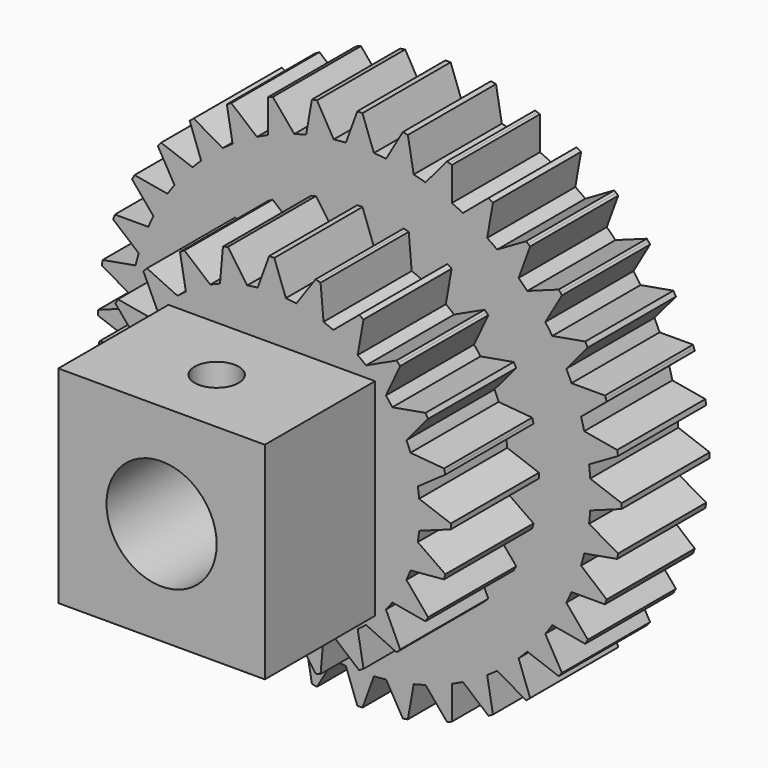
from build123d import *

# Parameters (mm, degrees)
F0_R     = 4
F1_DEPTH = 8
F2_R     = 4
F3_DEPTH = 8
F4_W     = 15
F4_H     = 15
F4_R     = 4
F5_DEPTH = 10
F6_R     = 1.6
F7_DEPTH = 4.833939544


with BuildPart() as f1:
    # F0 (on Front) → F1 (new body)
    with BuildSketch(Plane.XZ):
        with BuildLine():
            ThreePointArc((10.701095609, -1.0242327697), (10.7377669419, -0.5126998162), (10.75, 0))
            ThreePointArc((10.75, 0), (10.7377669419, 0.5126998162), (10.701095609, 1.0242327697))
            ThreePointArc((10.701095609, 1.0242327697), (10.6580322598, 1.4031565664), (10.6015555658, 1.7803144627))
            ThreePointArc((10.6015555658, 1.7803144627), (10.3837026326, 2.7823047349), (10.0713736709, 3.7589802315))
            ThreePointArc((10.0713736709, 3.7589802315), (9.9317049745, 4.1138468979), (9.7795370306, 4.4635362065))
            ThreePointArc((9.7795370306, 4.4635362065), (9.3097730907, 5.375), (8.7553042609, 6.2375594025))
            ThreePointArc((8.7553042609, 6.2375594025), (8.5285484081, 6.5441853618), (8.2910592083, 6.8425753343))
            ThreePointArc((8.2910592083, 6.8425753343), (7.6013978978, 7.6013978978), (6.8425753343, 8.2910592083))
            ThreePointArc((6.8425753343, 8.2910592083), (6.5441853618, 8.5285484081), (6.2375594025, 8.7553042609))
            ThreePointArc((6.2375594025, 8.7553042609), (5.375, 9.3097730907), (4.4635362065, 9.7795370306))
            ThreePointArc((4.4635362065, 9.7795370306), (4.1138468979, 9.9317049745), (3.7589802315, 10.0713736709))
            ThreePointArc((3.7589802315, 10.0713736709), (2.7823047349, 10.3837026326), (1.7803144627, 10.6015555658))
            ThreePointArc((1.7803144627, 10.6015555658), (1.4031565664, 10.6580322598), (1.0242327697, 10.701095609))
            ThreePointArc((1.0242327697, 10.701095609), (0, 10.75), (-1.0242327697, 10.701095609))
            ThreePointArc((-1.0242327697, 10.701095609), (-1.4031565664, 10.6580322598), (-1.7803144627, 10.6015555658))
            ThreePointArc((-1.7803144627, 10.6015555658), (-2.7823047349, 10.3837026326), (-3.7589802315, 10.0713736709))
            ThreePointArc((-3.7589802315, 10.0713736709), (-4.1138468979, 9.9317049745), (-4.4635362065, 9.7795370306))
            ThreePointArc((-4.4635362065, 9.7795370306), (-5.375, 9.3097730907), (-6.2375594025, 8.7553042609))
            ThreePointArc((-6.2375594025, 8.7553042609), (-6.5441853618, 8.5285484081), (-6.8425753343, 8.2910592083))
            ThreePointArc((-6.8425753343, 8.2910592083), (-7.6013978978, 7.6013978978), (-8.2910592083, 6.8425753343))
            ThreePointArc((-8.2910592083, 6.8425753343), (-8.5285484081, 6.5441853618), (-8.7553042609, 6.2375594025))
            ThreePointArc((-8.7553042609, 6.2375594025), (-9.3097730907, 5.375), (-9.7795370306, 4.4635362065))
            ThreePointArc((-9.7795370306, 4.4635362065), (-9.9317049745, 4.1138468979), (-10.0713736709, 3.7589802315))
            ThreePointArc((-10.0713736709, 3.7589802315), (-10.3837026326, 2.7823047349), (-10.6015555658, 1.7803144627))
            ThreePointArc((-10.6015555658, 1.7803144627), (-10.6580322598, 1.4031565664), (-10.701095609, 1.0242327697))
            ThreePointArc((-10.701095609, 1.0242327697), (-10.75, 0), (-10.701095609, -1.0242327697))
            ThreePointArc((-10.701095609, -1.0242327697), (-10.6580322598, -1.4031565664), (-10.6015555658, -1.7803144627))
            ThreePointArc((-10.6015555658, -1.7803144627), (-10.3837026326, -2.7823047349), (-10.0713736709, -3.7589802315))
            ThreePointArc((-10.0713736709, -3.7589802315), (-9.9317049745, -4.1138468979), (-9.7795370306, -4.4635362065))
            ThreePointArc((-9.7795370306, -4.4635362065), (-9.3097730907, -5.375), (-8.7553042609, -6.2375594025))
            ThreePointArc((-8.7553042609, -6.2375594025), (-8.5285484081, -6.5441853618), (-8.2910592083, -6.8425753343))
            ThreePointArc((-8.2910592083, -6.8425753343), (-7.6013978978, -7.6013978978), (-6.8425753343, -8.2910592083))
            ThreePointArc((-6.8425753343, -8.2910592083), (-6.5441853618, -8.5285484081), (-6.2375594025, -8.7553042609))
            ThreePointArc((-6.2375594025, -8.7553042609), (-5.375, -9.3097730907), (-4.4635362065, -9.7795370306))
            ThreePointArc((-4.4635362065, -9.7795370306), (-4.1138468979, -9.9317049745), (-3.7589802315, -10.0713736709))
            ThreePointArc((-3.7589802315, -10.0713736709), (-2.7823047349, -10.3837026326), (-1.7803144627, -10.6015555658))
            ThreePointArc((-1.7803144627, -10.6015555658), (-1.4031565664, -10.6580322598), (-1.0242327697, -10.701095609))
            ThreePointArc((-1.0242327697, -10.701095609), (0, -10.75), (1.0242327697, -10.701095609))
            ThreePointArc((1.0242327697, -10.701095609), (1.4031565664, -10.6580322598), (1.7803144627, -10.6015555658))
            ThreePointArc((1.7803144627, -10.6015555658), (2.7823047349, -10.3837026326), (3.7589802315, -10.0713736709))
            ThreePointArc((3.7589802315, -10.0713736709), (4.1138468979, -9.9317049745), (4.4635362065, -9.7795370306))
            ThreePointArc((4.4635362065, -9.7795370306), (5.375, -9.3097730907), (6.2375594025, -8.7553042609))
            ThreePointArc((6.2375594025, -8.7553042609), (6.5441853618, -8.5285484081), (6.8425753343, -8.2910592083))
            ThreePointArc((6.8425753343, -8.2910592083), (7.6013978978, -7.6013978978), (8.2910592083, -6.8425753343))
            ThreePointArc((8.2910592083, -6.8425753343), (8.5285484081, -6.5441853618), (8.7553042609, -6.2375594025))
            ThreePointArc((8.7553042609, -6.2375594025), (9.3097730907, -5.375), (9.7795370306, -4.4635362065))
            ThreePointArc((9.7795370306, -4.4635362065), (9.9317049745, -4.1138468979), (10.0713736709, -3.7589802315))
            ThreePointArc((10.0713736709, -3.7589802315), (10.3837026326, -2.7823047349), (10.6015555658, -1.7803144627))
            ThreePointArc((10.6015555658, -1.7803144627), (10.6580322598, -1.4031565664), (10.701095609, -1.0242327697))
        make_face()
        Circle(F0_R, mode=Mode.SUBTRACT)
        with BuildLine():
            ThreePointArc((10.701095609, 1.0242327697), (10.7377669419, 0.5126998162), (10.75, 0))
            ThreePointArc((10.75, 0), (10.7377669419, -0.5126998162), (10.701095609, -1.0242327697))
            Line((10.701095609, -1.0242327697), (13, -0.1875))
            Line((13, -0.1875), (13, 0))
            Line((13, 0), (13, 0.1875))
            Line((13, 0.1875), (10.701095609, 1.0242327697))
        make_face()
        with BuildLine():
            ThreePointArc((10.0713736709, 3.7589802315), (10.3837026326, 2.7823047349), (10.6015555658, 1.7803144627))
            Line((10.6015555658, 1.7803144627), (12.6055643127, 3.1835364939))
            Line((12.6055643127, 3.1835364939), (12.5570357418, 3.3646475863))
            Line((12.5570357418, 3.3646475863), (12.5085071708, 3.5457586788))
            Line((12.5085071708, 3.5457586788), (10.0713736709, 3.7589802315))
        make_face()
        with BuildLine():
            Line((12.6055643127, -3.1835364939), (10.6015555658, -1.7803144627))
            ThreePointArc((10.6015555658, -1.7803144627), (10.3837026326, -2.7823047349), (10.0713736709, -3.7589802315))
            Line((10.0713736709, -3.7589802315), (12.5085071708, -3.5457586788))
            Line((12.5085071708, -3.5457586788), (12.5570357418, -3.3646475863))
            Line((12.5570357418, -3.3646475863), (12.6055643127, -3.1835364939))
        make_face()
        with BuildLine():
            ThreePointArc((8.7553042609, 6.2375594025), (9.3097730907, 5.375), (9.7795370306, 4.4635362065))
            Line((9.7795370306, 4.4635362065), (11.3520802492, 6.3376202368))
            Line((11.3520802492, 6.3376202368), (11.2583302492, 6.5))
            Line((11.2583302492, 6.5), (11.1645802492, 6.6623797632))
            Line((11.1645802492, 6.6623797632), (8.7553042609, 6.2375594025))
        make_face()
        with BuildLine():
            Line((11.3520802492, -6.3376202368), (9.7795370306, -4.4635362065))
            ThreePointArc((9.7795370306, -4.4635362065), (9.3097730907, -5.375), (8.7553042609, -6.2375594025))
            Line((8.7553042609, -6.2375594025), (11.1645802492, -6.6623797632))
            Line((11.1645802492, -6.6623797632), (11.2583302492, -6.5))
            Line((11.2583302492, -6.5), (11.3520802492, -6.3376202368))
        make_face()
        with BuildLine():
            ThreePointArc((6.8425753343, 8.2910592083), (7.6013978978, 7.6013978978), (8.2910592083, 6.8425753343))
            Line((8.2910592083, 6.8425753343), (9.3249706769, 9.059805634))
            Line((9.3249706769, 9.059805634), (9.1923881554, 9.1923881554))
            Line((9.1923881554, 9.1923881554), (9.059805634, 9.3249706769))
            Line((9.059805634, 9.3249706769), (6.8425753343, 8.2910592083))
        make_face()
        with BuildLine():
            Line((9.3249706769, -9.059805634), (8.2910592083, -6.8425753343))
            ThreePointArc((8.2910592083, -6.8425753343), (7.6013978978, -7.6013978978), (6.8425753343, -8.2910592083))
            Line((6.8425753343, -8.2910592083), (9.059805634, -9.3249706769))
            Line((9.059805634, -9.3249706769), (9.1923881554, -9.1923881554))
            Line((9.1923881554, -9.1923881554), (9.3249706769, -9.059805634))
        make_face()
        with BuildLine():
            ThreePointArc((4.4635362065, 9.7795370306), (5.375, 9.3097730907), (6.2375594025, 8.7553042609))
            Line((6.2375594025, 8.7553042609), (6.6623797632, 11.1645802492))
            Line((6.6623797632, 11.1645802492), (6.5, 11.2583302492))
            Line((6.5, 11.2583302492), (6.3376202368, 11.3520802492))
            Line((6.3376202368, 11.3520802492), (4.4635362065, 9.7795370306))
        make_face()
        with BuildLine():
            Line((6.6623797632, -11.1645802492), (6.2375594025, -8.7553042609))
            ThreePointArc((6.2375594025, -8.7553042609), (5.375, -9.3097730907), (4.4635362065, -9.7795370306))
            Line((4.4635362065, -9.7795370306), (6.3376202368, -11.3520802492))
            Line((6.3376202368, -11.3520802492), (6.5, -11.2583302492))
            Line((6.5, -11.2583302492), (6.6623797632, -11.1645802492))
        make_face()
        with BuildLine():
            ThreePointArc((1.7803144627, 10.6015555658), (2.7823047349, 10.3837026326), (3.7589802315, 10.0713736709))
            Line((3.7589802315, 10.0713736709), (3.5457586788, 12.5085071708))
            Line((3.5457586788, 12.5085071708), (3.3646475863, 12.5570357418))
            Line((3.3646475863, 12.5570357418), (3.1835364939, 12.6055643127))
            Line((3.1835364939, 12.6055643127), (1.7803144627, 10.6015555658))
        make_face()
        with BuildLine():
            Line((3.5457586788, -12.5085071708), (3.7589802315, -10.0713736709))
            ThreePointArc((3.7589802315, -10.0713736709), (2.7823047349, -10.3837026326), (1.7803144627, -10.6015555658))
            Line((1.7803144627, -10.6015555658), (3.1835364939, -12.6055643127))
            Line((3.1835364939, -12.6055643127), (3.3646475863, -12.5570357418))
            Line((3.3646475863, -12.5570357418), (3.5457586788, -12.5085071708))
        make_face()
        with BuildLine():
            ThreePointArc((-1.0242327697, 10.701095609), (0, 10.75), (1.0242327697, 10.701095609))
            Line((1.0242327697, 10.701095609), (0.1875, 13))
            Line((0.1875, 13), (0, 13))
            Line((0, 13), (-0.1875, 13))
            Line((-0.1875, 13), (-1.0242327697, 10.701095609))
        make_face()
        with BuildLine():
            Line((0.1875, -13), (1.0242327697, -10.701095609))
            ThreePointArc((1.0242327697, -10.701095609), (0, -10.75), (-1.0242327697, -10.701095609))
            Line((-1.0242327697, -10.701095609), (-0.1875, -13))
            Line((-0.1875, -13), (0, -13))
            Line((0, -13), (0.1875, -13))
        make_face()
        with BuildLine():
            ThreePointArc((-3.7589802315, 10.0713736709), (-2.7823047349, 10.3837026326), (-1.7803144627, 10.6015555658))
            Line((-1.7803144627, 10.6015555658), (-3.1835364939, 12.6055643127))
            Line((-3.1835364939, 12.6055643127), (-3.3646475863, 12.5570357418))
            Line((-3.3646475863, 12.5570357418), (-3.5457586788, 12.5085071708))
            Line((-3.5457586788, 12.5085071708), (-3.7589802315, 10.0713736709))
        make_face()
        with BuildLine():
            Line((-3.1835364939, -12.6055643127), (-1.7803144627, -10.6015555658))
            ThreePointArc((-1.7803144627, -10.6015555658), (-2.7823047349, -10.3837026326), (-3.7589802315, -10.0713736709))
            Line((-3.7589802315, -10.0713736709), (-3.5457586788, -12.5085071708))
            Line((-3.5457586788, -12.5085071708), (-3.3646475863, -12.5570357418))
            Line((-3.3646475863, -12.5570357418), (-3.1835364939, -12.6055643127))
        make_face()
        with BuildLine():
            ThreePointArc((-6.2375594025, 8.7553042609), (-5.375, 9.3097730907), (-4.4635362065, 9.7795370306))
            Line((-4.4635362065, 9.7795370306), (-6.3376202368, 11.3520802492))
            Line((-6.3376202368, 11.3520802492), (-6.5, 11.2583302492))
            Line((-6.5, 11.2583302492), (-6.6623797632, 11.1645802492))
            Line((-6.6623797632, 11.1645802492), (-6.2375594025, 8.7553042609))
        make_face()
        with BuildLine():
            Line((-6.3376202368, -11.3520802492), (-4.4635362065, -9.7795370306))
            ThreePointArc((-4.4635362065, -9.7795370306), (-5.375, -9.3097730907), (-6.2375594025, -8.7553042609))
            Line((-6.2375594025, -8.7553042609), (-6.6623797632, -11.1645802492))
            Line((-6.6623797632, -11.1645802492), (-6.5, -11.2583302492))
            Line((-6.5, -11.2583302492), (-6.3376202368, -11.3520802492))
        make_face()
        with BuildLine():
            ThreePointArc((-8.2910592083, 6.8425753343), (-7.6013978978, 7.6013978978), (-6.8425753343, 8.2910592083))
            Line((-6.8425753343, 8.2910592083), (-9.059805634, 9.3249706769))
            Line((-9.059805634, 9.3249706769), (-9.1923881554, 9.1923881554))
            Line((-9.1923881554, 9.1923881554), (-9.3249706769, 9.059805634))
            Line((-9.3249706769, 9.059805634), (-8.2910592083, 6.8425753343))
        make_face()
        with BuildLine():
            Line((-9.059805634, -9.3249706769), (-6.8425753343, -8.2910592083))
            ThreePointArc((-6.8425753343, -8.2910592083), (-7.6013978978, -7.6013978978), (-8.2910592083, -6.8425753343))
            Line((-8.2910592083, -6.8425753343), (-9.3249706769, -9.059805634))
            Line((-9.3249706769, -9.059805634), (-9.1923881554, -9.1923881554))
            Line((-9.1923881554, -9.1923881554), (-9.059805634, -9.3249706769))
        make_face()
        with BuildLine():
            ThreePointArc((-9.7795370306, 4.4635362065), (-9.3097730907, 5.375), (-8.7553042609, 6.2375594025))
            Line((-8.7553042609, 6.2375594025), (-11.1645802492, 6.6623797632))
            Line((-11.1645802492, 6.6623797632), (-11.2583302492, 6.5))
            Line((-11.2583302492, 6.5), (-11.3520802492, 6.3376202368))
            Line((-11.3520802492, 6.3376202368), (-9.7795370306, 4.4635362065))
        make_face()
        with BuildLine():
            Line((-11.1645802492, -6.6623797632), (-8.7553042609, -6.2375594025))
            ThreePointArc((-8.7553042609, -6.2375594025), (-9.3097730907, -5.375), (-9.7795370306, -4.4635362065))
            Line((-9.7795370306, -4.4635362065), (-11.3520802492, -6.3376202368))
            Line((-11.3520802492, -6.3376202368), (-11.2583302492, -6.5))
            Line((-11.2583302492, -6.5), (-11.1645802492, -6.6623797632))
        make_face()
        with BuildLine():
            ThreePointArc((-10.6015555658, 1.7803144627), (-10.3837026326, 2.7823047349), (-10.0713736709, 3.7589802315))
            Line((-10.0713736709, 3.7589802315), (-12.5085071708, 3.5457586788))
            Line((-12.5085071708, 3.5457586788), (-12.5570357418, 3.3646475863))
            Line((-12.5570357418, 3.3646475863), (-12.6055643127, 3.1835364939))
            Line((-12.6055643127, 3.1835364939), (-10.6015555658, 1.7803144627))
        make_face()
        with BuildLine():
            Line((-12.5085071708, -3.5457586788), (-10.0713736709, -3.7589802315))
            ThreePointArc((-10.0713736709, -3.7589802315), (-10.3837026326, -2.7823047349), (-10.6015555658, -1.7803144627))
            Line((-10.6015555658, -1.7803144627), (-12.6055643127, -3.1835364939))
            Line((-12.6055643127, -3.1835364939), (-12.5570357418, -3.3646475863))
            Line((-12.5570357418, -3.3646475863), (-12.5085071708, -3.5457586788))
        make_face()
        with BuildLine():
            ThreePointArc((-10.701095609, -1.0242327697), (-10.75, 0), (-10.701095609, 1.0242327697))
            Line((-10.701095609, 1.0242327697), (-13, 0.1875))
            Line((-13, 0.1875), (-13, 0))
            Line((-13, 0), (-13, -0.1875))
            Line((-13, -0.1875), (-10.701095609, -1.0242327697))
        make_face()
    extrude(amount=F1_DEPTH)

    # F2 (on Front) → F3 (join)
    with BuildSketch(Plane.XZ):
        with BuildLine():
            ThreePointArc((16.7190548343, -1.0176961463), (16.7422619212, -0.5090832568), (16.75, 0))
            ThreePointArc((16.75, 0), (16.7422619212, 0.5090832568), (16.7190548343, 1.0176961463))
            ThreePointArc((16.7190548343, 1.0176961463), (16.686261193, 1.459858691), (16.6417759051, 1.9009983492))
            ThreePointArc((16.6417759051, 1.9009983492), (16.495529863, 2.9086069759), (16.2883337427, 3.9054684594))
            ThreePointArc((16.2883337427, 3.9054684594), (16.1792575903, 4.3352190055), (16.0588450362, 4.7619319718))
            ThreePointArc((16.0588450362, 4.7619319718), (15.7398513982, 5.7288374007), (15.3626998725, 6.6745750896))
            ThreePointArc((15.3626998725, 6.6745750896), (15.1806554329, 7.0788558842), (14.987974287, 7.4781767011))
            ThreePointArc((14.987974287, 7.4781767011), (14.5059255134, 8.375), (13.9702781407, 9.2408781332))
            ThreePointArc((13.9702781407, 9.2408781332), (13.7207967418, 9.6074053089), (13.4617015233, 9.9672008155))
            ThreePointArc((13.4617015233, 9.9672008155), (12.8312444222, 10.7666924622), (12.1533765768, 11.5264017708))
            ThreePointArc((12.1533765768, 11.5264017708), (11.8440385849, 11.8440385849), (11.5264017708, 12.1533765768))
            ThreePointArc((11.5264017708, 12.1533765768), (10.7666924622, 12.8312444222), (9.9672008155, 13.4617015233))
            ThreePointArc((9.9672008155, 13.4617015233), (9.6074053089, 13.7207967418), (9.2408781332, 13.9702781407))
            ThreePointArc((9.2408781332, 13.9702781407), (8.375, 14.5059255134), (7.4781767011, 14.987974287))
            ThreePointArc((7.4781767011, 14.987974287), (7.0788558842, 15.1806554329), (6.6745750896, 15.3626998725))
            ThreePointArc((6.6745750896, 15.3626998725), (5.7288374007, 15.7398513982), (4.7619319718, 16.0588450362))
            ThreePointArc((4.7619319718, 16.0588450362), (4.3352190055, 16.1792575903), (3.9054684594, 16.2883337427))
            ThreePointArc((3.9054684594, 16.2883337427), (2.9086069759, 16.495529863), (1.9009983492, 16.6417759051))
            ThreePointArc((1.9009983492, 16.6417759051), (1.459858691, 16.686261193), (1.0176961463, 16.7190548343))
            ThreePointArc((1.0176961463, 16.7190548343), (0, 16.75), (-1.0176961463, 16.7190548343))
            ThreePointArc((-1.0176961463, 16.7190548343), (-1.459858691, 16.686261193), (-1.9009983492, 16.6417759051))
            ThreePointArc((-1.9009983492, 16.6417759051), (-2.9086069759, 16.495529863), (-3.9054684594, 16.2883337427))
            ThreePointArc((-3.9054684594, 16.2883337427), (-4.3352190055, 16.1792575903), (-4.7619319718, 16.0588450362))
            ThreePointArc((-4.7619319718, 16.0588450362), (-5.7288374007, 15.7398513982), (-6.6745750896, 15.3626998725))
            ThreePointArc((-6.6745750896, 15.3626998725), (-7.0788558842, 15.1806554329), (-7.4781767011, 14.987974287))
            ThreePointArc((-7.4781767011, 14.987974287), (-8.375, 14.5059255134), (-9.2408781332, 13.9702781407))
            ThreePointArc((-9.2408781332, 13.9702781407), (-9.6074053089, 13.7207967418), (-9.9672008155, 13.4617015233))
            ThreePointArc((-9.9672008155, 13.4617015233), (-10.7666924622, 12.8312444222), (-11.5264017708, 12.1533765768))
            ThreePointArc((-11.5264017708, 12.1533765768), (-11.8440385849, 11.8440385849), (-12.1533765768, 11.5264017708))
            ThreePointArc((-12.1533765768, 11.5264017708), (-12.8312444222, 10.7666924622), (-13.4617015233, 9.9672008155))
            ThreePointArc((-13.4617015233, 9.9672008155), (-13.7207967418, 9.6074053089), (-13.9702781407, 9.2408781332))
            ThreePointArc((-13.9702781407, 9.2408781332), (-14.5059255134, 8.375), (-14.987974287, 7.4781767011))
            ThreePointArc((-14.987974287, 7.4781767011), (-15.1806554329, 7.0788558842), (-15.3626998725, 6.6745750896))
            ThreePointArc((-15.3626998725, 6.6745750896), (-15.7398513982, 5.7288374007), (-16.0588450362, 4.7619319718))
            ThreePointArc((-16.0588450362, 4.7619319718), (-16.1792575903, 4.3352190055), (-16.2883337427, 3.9054684594))
            ThreePointArc((-16.2883337427, 3.9054684594), (-16.495529863, 2.9086069759), (-16.6417759051, 1.9009983492))
            ThreePointArc((-16.6417759051, 1.9009983492), (-16.686261193, 1.459858691), (-16.7190548343, 1.0176961463))
            ThreePointArc((-16.7190548343, 1.0176961463), (-16.75, 0), (-16.7190548343, -1.0176961463))
            ThreePointArc((-16.7190548343, -1.0176961463), (-16.686261193, -1.459858691), (-16.6417759051, -1.9009983492))
            ThreePointArc((-16.6417759051, -1.9009983492), (-16.495529863, -2.9086069759), (-16.2883337427, -3.9054684594))
            ThreePointArc((-16.2883337427, -3.9054684594), (-16.1792575903, -4.3352190055), (-16.0588450362, -4.7619319718))
            ThreePointArc((-16.0588450362, -4.7619319718), (-15.7398513982, -5.7288374007), (-15.3626998725, -6.6745750896))
            ThreePointArc((-15.3626998725, -6.6745750896), (-15.1806554329, -7.0788558842), (-14.987974287, -7.4781767011))
            ThreePointArc((-14.987974287, -7.4781767011), (-14.5059255134, -8.375), (-13.9702781407, -9.2408781332))
            ThreePointArc((-13.9702781407, -9.2408781332), (-13.7207967418, -9.6074053089), (-13.4617015233, -9.9672008155))
            ThreePointArc((-13.4617015233, -9.9672008155), (-12.8312444222, -10.7666924622), (-12.1533765768, -11.5264017708))
            ThreePointArc((-12.1533765768, -11.5264017708), (-11.8440385849, -11.8440385849), (-11.5264017708, -12.1533765768))
            ThreePointArc((-11.5264017708, -12.1533765768), (-10.7666924622, -12.8312444222), (-9.9672008155, -13.4617015233))
            ThreePointArc((-9.9672008155, -13.4617015233), (-9.6074053089, -13.7207967418), (-9.2408781332, -13.9702781407))
            ThreePointArc((-9.2408781332, -13.9702781407), (-8.375, -14.5059255134), (-7.4781767011, -14.987974287))
            ThreePointArc((-7.4781767011, -14.987974287), (-7.0788558842, -15.1806554329), (-6.6745750896, -15.3626998725))
            ThreePointArc((-6.6745750896, -15.3626998725), (-5.7288374007, -15.7398513982), (-4.7619319718, -16.0588450362))
            ThreePointArc((-4.7619319718, -16.0588450362), (-4.3352190055, -16.1792575903), (-3.9054684594, -16.2883337427))
            ThreePointArc((-3.9054684594, -16.2883337427), (-2.9086069759, -16.495529863), (-1.9009983492, -16.6417759051))
            ThreePointArc((-1.9009983492, -16.6417759051), (-1.459858691, -16.686261193), (-1.0176961463, -16.7190548343))
            ThreePointArc((-1.0176961463, -16.7190548343), (0, -16.75), (1.0176961463, -16.7190548343))
            ThreePointArc((1.0176961463, -16.7190548343), (1.459858691, -16.686261193), (1.9009983492, -16.6417759051))
            ThreePointArc((1.9009983492, -16.6417759051), (2.9086069759, -16.495529863), (3.9054684594, -16.2883337427))
            ThreePointArc((3.9054684594, -16.2883337427), (4.3352190055, -16.1792575903), (4.7619319718, -16.0588450362))
            ThreePointArc((4.7619319718, -16.0588450362), (5.7288374007, -15.7398513982), (6.6745750896, -15.3626998725))
            ThreePointArc((6.6745750896, -15.3626998725), (7.0788558842, -15.1806554329), (7.4781767011, -14.987974287))
            ThreePointArc((7.4781767011, -14.987974287), (8.375, -14.5059255134), (9.2408781332, -13.9702781407))
            ThreePointArc((9.2408781332, -13.9702781407), (9.6074053089, -13.7207967418), (9.9672008155, -13.4617015233))
            ThreePointArc((9.9672008155, -13.4617015233), (10.7666924622, -12.8312444222), (11.5264017708, -12.1533765768))
            ThreePointArc((11.5264017708, -12.1533765768), (11.8440385849, -11.8440385849), (12.1533765768, -11.5264017708))
            ThreePointArc((12.1533765768, -11.5264017708), (12.8312444222, -10.7666924622), (13.4617015233, -9.9672008155))
            ThreePointArc((13.4617015233, -9.9672008155), (13.7207967418, -9.6074053089), (13.9702781407, -9.2408781332))
            ThreePointArc((13.9702781407, -9.2408781332), (14.5059255134, -8.375), (14.987974287, -7.4781767011))
            ThreePointArc((14.987974287, -7.4781767011), (15.1806554329, -7.0788558842), (15.3626998725, -6.6745750896))
            ThreePointArc((15.3626998725, -6.6745750896), (15.7398513982, -5.7288374007), (16.0588450362, -4.7619319718))
            ThreePointArc((16.0588450362, -4.7619319718), (16.1792575903, -4.3352190055), (16.2883337427, -3.9054684594))
            ThreePointArc((16.2883337427, -3.9054684594), (16.495529863, -2.9086069759), (16.6417759051, -1.9009983492))
            ThreePointArc((16.6417759051, -1.9009983492), (16.686261193, -1.459858691), (16.7190548343, -1.0176961463))
        make_face()
        Circle(F2_R, mode=Mode.SUBTRACT)
        with BuildLine():
            ThreePointArc((16.7190548343, 1.0176961463), (16.7422619212, 0.5090832568), (16.75, 0))
            ThreePointArc((16.75, 0), (16.7422619212, -0.5090832568), (16.7190548343, -1.0176961463))
            Line((16.7190548343, -1.0176961463), (19, -0.1875))
            Line((19, -0.1875), (19, 0))
            Line((19, 0), (19, 0.1875))
            Line((19, 0.1875), (16.7190548343, 1.0176961463))
        make_face()
        with BuildLine():
            ThreePointArc((16.2883337427, 3.9054684594), (16.495529863, 2.9086069759), (16.6417759051, 1.9009983492))
            Line((16.6417759051, 1.9009983492), (18.7439063405, 3.114663922))
            Line((18.7439063405, 3.114663922), (18.7113473072, 3.2993153757))
            Line((18.7113473072, 3.2993153757), (18.6787882739, 3.4839668294))
            Line((18.6787882739, 3.4839668294), (16.2883337427, 3.9054684594))
        make_face()
        with BuildLine():
            Line((18.7439063405, -3.114663922), (16.6417759051, -1.9009983492))
            ThreePointArc((16.6417759051, -1.9009983492), (16.495529863, -2.9086069759), (16.2883337427, -3.9054684594))
            Line((16.2883337427, -3.9054684594), (18.6787882739, -3.4839668294))
            Line((18.6787882739, -3.4839668294), (18.7113473072, -3.2993153757))
            Line((18.7113473072, -3.2993153757), (18.7439063405, -3.114663922))
        make_face()
        with BuildLine():
            ThreePointArc((15.3626998725, 6.6745750896), (15.7398513982, 5.7288374007), (16.0588450362, 4.7619319718))
            Line((16.0588450362, 4.7619319718), (17.9182885718, 6.3221903568))
            Line((17.9182885718, 6.3221903568), (17.8541597949, 6.4983827232))
            Line((17.8541597949, 6.4983827232), (17.7900310181, 6.6745750896))
            Line((17.7900310181, 6.6745750896), (15.3626998725, 6.6745750896))
        make_face()
        with BuildLine():
            Line((17.9182885718, -6.3221903568), (16.0588450362, -4.7619319718))
            ThreePointArc((16.0588450362, -4.7619319718), (15.7398513982, -5.7288374007), (15.3626998725, -6.6745750896))
            Line((15.3626998725, -6.6745750896), (17.7900310181, -6.6745750896))
            Line((17.7900310181, -6.6745750896), (17.8541597949, -6.4983827232))
            Line((17.8541597949, -6.4983827232), (17.9182885718, -6.3221903568))
        make_face()
        with BuildLine():
            ThreePointArc((13.9702781407, 9.2408781332), (14.5059255134, 8.375), (14.987974287, 7.4781767011))
            Line((14.987974287, 7.4781767011), (16.5482326719, 9.3376202368))
            Line((16.5482326719, 9.3376202368), (16.4544826719, 9.5))
            Line((16.4544826719, 9.5), (16.3607326719, 9.6623797632))
            Line((16.3607326719, 9.6623797632), (13.9702781407, 9.2408781332))
        make_face()
        with BuildLine():
            Line((16.5482326719, -9.3376202368), (14.987974287, -7.4781767011))
            ThreePointArc((14.987974287, -7.4781767011), (14.5059255134, -8.375), (13.9702781407, -9.2408781332))
            Line((13.9702781407, -9.2408781332), (16.3607326719, -9.6623797632))
            Line((16.3607326719, -9.6623797632), (16.4544826719, -9.5))
            Line((16.4544826719, -9.5), (16.5482326719, -9.3376202368))
        make_face()
        with BuildLine():
            ThreePointArc((12.1533765768, 11.5264017708), (12.8312444222, 10.7666924622), (13.4617015233, 9.9672008155))
            Line((13.4617015233, 9.9672008155), (14.6753670961, 12.069331251))
            Line((14.6753670961, 12.069331251), (14.5548444193, 12.212964584))
            Line((14.5548444193, 12.212964584), (14.4343217424, 12.3565979171))
            Line((14.4343217424, 12.3565979171), (12.1533765768, 11.5264017708))
        make_face()
        with BuildLine():
            Line((14.6753670961, -12.069331251), (13.4617015233, -9.9672008155))
            ThreePointArc((13.4617015233, -9.9672008155), (12.8312444222, -10.7666924622), (12.1533765768, -11.5264017708))
            Line((12.1533765768, -11.5264017708), (14.4343217424, -12.3565979171))
            Line((14.4343217424, -12.3565979171), (14.5548444193, -12.212964584))
            Line((14.5548444193, -12.212964584), (14.6753670961, -12.069331251))
        make_face()
        with BuildLine():
            ThreePointArc((9.9672008155, 13.4617015233), (10.7666924622, 12.8312444222), (11.5264017708, 12.1533765768))
            Line((11.5264017708, 12.1533765768), (12.3565979171, 14.4343217424))
            Line((12.3565979171, 14.4343217424), (12.212964584, 14.5548444193))
            Line((12.212964584, 14.5548444193), (12.069331251, 14.6753670961))
            Line((12.069331251, 14.6753670961), (9.9672008155, 13.4617015233))
        make_face()
        with BuildLine():
            Line((12.3565979171, -14.4343217424), (11.5264017708, -12.1533765768))
            ThreePointArc((11.5264017708, -12.1533765768), (10.7666924622, -12.8312444222), (9.9672008155, -13.4617015233))
            Line((9.9672008155, -13.4617015233), (12.069331251, -14.6753670961))
            Line((12.069331251, -14.6753670961), (12.212964584, -14.5548444193))
            Line((12.212964584, -14.5548444193), (12.3565979171, -14.4343217424))
        make_face()
        with BuildLine():
            ThreePointArc((7.4781767011, 14.987974287), (8.375, 14.5059255134), (9.2408781332, 13.9702781407))
            Line((9.2408781332, 13.9702781407), (9.6623797632, 16.3607326719))
            Line((9.6623797632, 16.3607326719), (9.5, 16.4544826719))
            Line((9.5, 16.4544826719), (9.3376202368, 16.5482326719))
            Line((9.3376202368, 16.5482326719), (7.4781767011, 14.987974287))
        make_face()
        with BuildLine():
            Line((9.6623797632, -16.3607326719), (9.2408781332, -13.9702781407))
            ThreePointArc((9.2408781332, -13.9702781407), (8.375, -14.5059255134), (7.4781767011, -14.987974287))
            Line((7.4781767011, -14.987974287), (9.3376202368, -16.5482326719))
            Line((9.3376202368, -16.5482326719), (9.5, -16.4544826719))
            Line((9.5, -16.4544826719), (9.6623797632, -16.3607326719))
        make_face()
        with BuildLine():
            ThreePointArc((4.7619319718, 16.0588450362), (5.7288374007, 15.7398513982), (6.6745750896, 15.3626998725))
            Line((6.6745750896, 15.3626998725), (6.6745750896, 17.7900310181))
            Line((6.6745750896, 17.7900310181), (6.4983827232, 17.8541597949))
            Line((6.4983827232, 17.8541597949), (6.3221903568, 17.9182885718))
            Line((6.3221903568, 17.9182885718), (4.7619319718, 16.0588450362))
        make_face()
        with BuildLine():
            Line((6.6745750896, -17.7900310181), (6.6745750896, -15.3626998725))
            ThreePointArc((6.6745750896, -15.3626998725), (5.7288374007, -15.7398513982), (4.7619319718, -16.0588450362))
            Line((4.7619319718, -16.0588450362), (6.3221903568, -17.9182885718))
            Line((6.3221903568, -17.9182885718), (6.4983827232, -17.8541597949))
            Line((6.4983827232, -17.8541597949), (6.6745750896, -17.7900310181))
        make_face()
        with BuildLine():
            ThreePointArc((1.9009983492, 16.6417759051), (2.9086069759, 16.495529863), (3.9054684594, 16.2883337427))
            Line((3.9054684594, 16.2883337427), (3.4839668294, 18.6787882739))
            Line((3.4839668294, 18.6787882739), (3.2993153757, 18.7113473072))
            Line((3.2993153757, 18.7113473072), (3.114663922, 18.7439063405))
            Line((3.114663922, 18.7439063405), (1.9009983492, 16.6417759051))
        make_face()
        with BuildLine():
            Line((3.4839668294, -18.6787882739), (3.9054684594, -16.2883337427))
            ThreePointArc((3.9054684594, -16.2883337427), (2.9086069759, -16.495529863), (1.9009983492, -16.6417759051))
            Line((1.9009983492, -16.6417759051), (3.114663922, -18.7439063405))
            Line((3.114663922, -18.7439063405), (3.2993153757, -18.7113473072))
            Line((3.2993153757, -18.7113473072), (3.4839668294, -18.6787882739))
        make_face()
        with BuildLine():
            ThreePointArc((-1.0176961463, 16.7190548343), (0, 16.75), (1.0176961463, 16.7190548343))
            Line((1.0176961463, 16.7190548343), (0.1875, 19))
            Line((0.1875, 19), (0, 19))
            Line((0, 19), (-0.1875, 19))
            Line((-0.1875, 19), (-1.0176961463, 16.7190548343))
        make_face()
        with BuildLine():
            Line((0.1875, -19), (1.0176961463, -16.7190548343))
            ThreePointArc((1.0176961463, -16.7190548343), (0, -16.75), (-1.0176961463, -16.7190548343))
            Line((-1.0176961463, -16.7190548343), (-0.1875, -19))
            Line((-0.1875, -19), (0, -19))
            Line((0, -19), (0.1875, -19))
        make_face()
        with BuildLine():
            ThreePointArc((-3.9054684594, 16.2883337427), (-2.9086069759, 16.495529863), (-1.9009983492, 16.6417759051))
            Line((-1.9009983492, 16.6417759051), (-3.114663922, 18.7439063405))
            Line((-3.114663922, 18.7439063405), (-3.2993153757, 18.7113473072))
            Line((-3.2993153757, 18.7113473072), (-3.4839668294, 18.6787882739))
            Line((-3.4839668294, 18.6787882739), (-3.9054684594, 16.2883337427))
        make_face()
        with BuildLine():
            Line((-3.114663922, -18.7439063405), (-1.9009983492, -16.6417759051))
            ThreePointArc((-1.9009983492, -16.6417759051), (-2.9086069759, -16.495529863), (-3.9054684594, -16.2883337427))
            Line((-3.9054684594, -16.2883337427), (-3.4839668294, -18.6787882739))
            Line((-3.4839668294, -18.6787882739), (-3.2993153757, -18.7113473072))
            Line((-3.2993153757, -18.7113473072), (-3.114663922, -18.7439063405))
        make_face()
        with BuildLine():
            ThreePointArc((-6.6745750896, 15.3626998725), (-5.7288374007, 15.7398513982), (-4.7619319718, 16.0588450362))
            Line((-4.7619319718, 16.0588450362), (-6.3221903568, 17.9182885718))
            Line((-6.3221903568, 17.9182885718), (-6.4983827232, 17.8541597949))
            Line((-6.4983827232, 17.8541597949), (-6.6745750896, 17.7900310181))
            Line((-6.6745750896, 17.7900310181), (-6.6745750896, 15.3626998725))
        make_face()
        with BuildLine():
            Line((-6.3221903568, -17.9182885718), (-4.7619319718, -16.0588450362))
            ThreePointArc((-4.7619319718, -16.0588450362), (-5.7288374007, -15.7398513982), (-6.6745750896, -15.3626998725))
            Line((-6.6745750896, -15.3626998725), (-6.6745750896, -17.7900310181))
            Line((-6.6745750896, -17.7900310181), (-6.4983827232, -17.8541597949))
            Line((-6.4983827232, -17.8541597949), (-6.3221903568, -17.9182885718))
        make_face()
        with BuildLine():
            ThreePointArc((-9.2408781332, 13.9702781407), (-8.375, 14.5059255134), (-7.4781767011, 14.987974287))
            Line((-7.4781767011, 14.987974287), (-9.3376202368, 16.5482326719))
            Line((-9.3376202368, 16.5482326719), (-9.5, 16.4544826719))
            Line((-9.5, 16.4544826719), (-9.6623797632, 16.3607326719))
            Line((-9.6623797632, 16.3607326719), (-9.2408781332, 13.9702781407))
        make_face()
        with BuildLine():
            Line((-9.3376202368, -16.5482326719), (-7.4781767011, -14.987974287))
            ThreePointArc((-7.4781767011, -14.987974287), (-8.375, -14.5059255134), (-9.2408781332, -13.9702781407))
            Line((-9.2408781332, -13.9702781407), (-9.6623797632, -16.3607326719))
            Line((-9.6623797632, -16.3607326719), (-9.5, -16.4544826719))
            Line((-9.5, -16.4544826719), (-9.3376202368, -16.5482326719))
        make_face()
        with BuildLine():
            ThreePointArc((-11.5264017708, 12.1533765768), (-10.7666924622, 12.8312444222), (-9.9672008155, 13.4617015233))
            Line((-9.9672008155, 13.4617015233), (-12.069331251, 14.6753670961))
            Line((-12.069331251, 14.6753670961), (-12.212964584, 14.5548444193))
            Line((-12.212964584, 14.5548444193), (-12.3565979171, 14.4343217424))
            Line((-12.3565979171, 14.4343217424), (-11.5264017708, 12.1533765768))
        make_face()
        with BuildLine():
            Line((-12.069331251, -14.6753670961), (-9.9672008155, -13.4617015233))
            ThreePointArc((-9.9672008155, -13.4617015233), (-10.7666924622, -12.8312444222), (-11.5264017708, -12.1533765768))
            Line((-11.5264017708, -12.1533765768), (-12.3565979171, -14.4343217424))
            Line((-12.3565979171, -14.4343217424), (-12.212964584, -14.5548444193))
            Line((-12.212964584, -14.5548444193), (-12.069331251, -14.6753670961))
        make_face()
        with BuildLine():
            ThreePointArc((-13.4617015233, 9.9672008155), (-12.8312444222, 10.7666924622), (-12.1533765768, 11.5264017708))
            Line((-12.1533765768, 11.5264017708), (-14.4343217424, 12.3565979171))
            Line((-14.4343217424, 12.3565979171), (-14.5548444193, 12.212964584))
            Line((-14.5548444193, 12.212964584), (-14.6753670961, 12.069331251))
            Line((-14.6753670961, 12.069331251), (-13.4617015233, 9.9672008155))
        make_face()
        with BuildLine():
            Line((-14.4343217424, -12.3565979171), (-12.1533765768, -11.5264017708))
            ThreePointArc((-12.1533765768, -11.5264017708), (-12.8312444222, -10.7666924622), (-13.4617015233, -9.9672008155))
            Line((-13.4617015233, -9.9672008155), (-14.6753670961, -12.069331251))
            Line((-14.6753670961, -12.069331251), (-14.5548444193, -12.212964584))
            Line((-14.5548444193, -12.212964584), (-14.4343217424, -12.3565979171))
        make_face()
        with BuildLine():
            ThreePointArc((-14.987974287, 7.4781767011), (-14.5059255134, 8.375), (-13.9702781407, 9.2408781332))
            Line((-13.9702781407, 9.2408781332), (-16.3607326719, 9.6623797632))
            Line((-16.3607326719, 9.6623797632), (-16.4544826719, 9.5))
            Line((-16.4544826719, 9.5), (-16.5482326719, 9.3376202368))
            Line((-16.5482326719, 9.3376202368), (-14.987974287, 7.4781767011))
        make_face()
        with BuildLine():
            Line((-16.3607326719, -9.6623797632), (-13.9702781407, -9.2408781332))
            ThreePointArc((-13.9702781407, -9.2408781332), (-14.5059255134, -8.375), (-14.987974287, -7.4781767011))
            Line((-14.987974287, -7.4781767011), (-16.5482326719, -9.3376202368))
            Line((-16.5482326719, -9.3376202368), (-16.4544826719, -9.5))
            Line((-16.4544826719, -9.5), (-16.3607326719, -9.6623797632))
        make_face()
        with BuildLine():
            ThreePointArc((-16.0588450362, 4.7619319718), (-15.7398513982, 5.7288374007), (-15.3626998725, 6.6745750896))
            Line((-15.3626998725, 6.6745750896), (-17.7900310181, 6.6745750896))
            Line((-17.7900310181, 6.6745750896), (-17.8541597949, 6.4983827232))
            Line((-17.8541597949, 6.4983827232), (-17.9182885718, 6.3221903568))
            Line((-17.9182885718, 6.3221903568), (-16.0588450362, 4.7619319718))
        make_face()
        with BuildLine():
            Line((-17.7900310181, -6.6745750896), (-15.3626998725, -6.6745750896))
            ThreePointArc((-15.3626998725, -6.6745750896), (-15.7398513982, -5.7288374007), (-16.0588450362, -4.7619319718))
            Line((-16.0588450362, -4.7619319718), (-17.9182885718, -6.3221903568))
            Line((-17.9182885718, -6.3221903568), (-17.8541597949, -6.4983827232))
            Line((-17.8541597949, -6.4983827232), (-17.7900310181, -6.6745750896))
        make_face()
        with BuildLine():
            ThreePointArc((-16.6417759051, 1.9009983492), (-16.495529863, 2.9086069759), (-16.2883337427, 3.9054684594))
            Line((-16.2883337427, 3.9054684594), (-18.6787882739, 3.4839668294))
            Line((-18.6787882739, 3.4839668294), (-18.7113473072, 3.2993153757))
            Line((-18.7113473072, 3.2993153757), (-18.7439063405, 3.114663922))
            Line((-18.7439063405, 3.114663922), (-16.6417759051, 1.9009983492))
        make_face()
        with BuildLine():
            Line((-18.6787882739, -3.4839668294), (-16.2883337427, -3.9054684594))
            ThreePointArc((-16.2883337427, -3.9054684594), (-16.495529863, -2.9086069759), (-16.6417759051, -1.9009983492))
            Line((-16.6417759051, -1.9009983492), (-18.7439063405, -3.114663922))
            Line((-18.7439063405, -3.114663922), (-18.7113473072, -3.2993153757))
            Line((-18.7113473072, -3.2993153757), (-18.6787882739, -3.4839668294))
        make_face()
        with BuildLine():
            ThreePointArc((-16.7190548343, -1.0176961463), (-16.75, 0), (-16.7190548343, 1.0176961463))
            Line((-16.7190548343, 1.0176961463), (-19, 0.1875))
            Line((-19, 0.1875), (-19, 0))
            Line((-19, 0), (-19, -0.1875))
            Line((-19, -0.1875), (-16.7190548343, -1.0176961463))
        make_face()
    extrude(amount=-F3_DEPTH)

    # F4 (on face) → F5 (join)
    with BuildSketch(Plane.XZ.offset(8)):
        Rectangle(F4_W, F4_H)
        Circle(F4_R, mode=Mode.SUBTRACT)
    extrude(amount=F5_DEPTH)

    # F6 (on face) → F7 (cut, up to face)
    with BuildSketch(Plane.XY.offset(7.5)):
        with Locations((0, -13)):
            Circle(F6_R)
    extrude(amount=-F7_DEPTH, mode=Mode.SUBTRACT)


solid = f1.part
